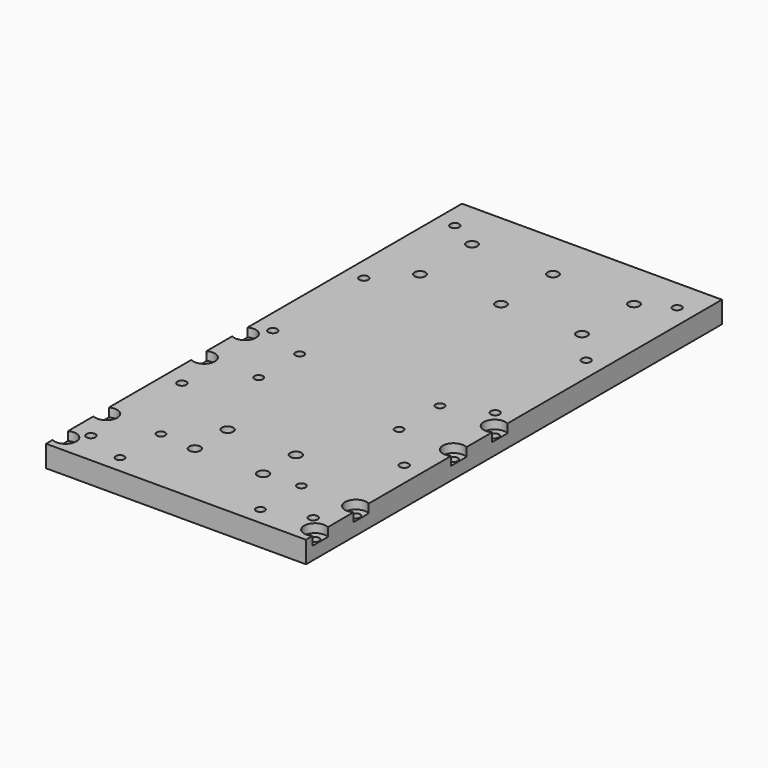
from build123d import *

# Parameters (mm, degrees)
F0_W     = 152.4
F0_H     = 12.7
F1_DEPTH = 304.8
F2_R     = 2.5
F2_R_2   = 3.302
F2_R_3   = 3.175
F2_R_4   = 2.6162
F3_DEPTH = 12.701
F4_R     = 6.35
F5_DEPTH = 5.08


with BuildPart() as f1:
    # F0 (on Front) → F1 (new body)
    with BuildSketch(Plane.XZ):
        Rectangle(F0_W, F0_H)
    extrude(amount=F1_DEPTH)

    # F2 (on face) → F3 (cut, through all)
    with BuildSketch(Plane.XY.offset(6.35)):
        with Locations((-73.15, -294.4)):
            Circle(F2_R)
        with Locations((-41.15, -294.4)):
            Circle(F2_R)
        with Locations((-73.15, -264.4)):
            Circle(F2_R)
        with Locations((-41.15, -264.4)):
            Circle(F2_R)
        with Locations((-73.15, -162.8)):
            Circle(F2_R)
        with Locations((-73.15, -192.8)):
            Circle(F2_R)
        with Locations((-41.15, -192.8)):
            Circle(F2_R)
        with Locations((-41.15, -162.8)):
            Circle(F2_R)
        with Locations((41.15, -162.8)):
            Circle(F2_R)
        with Locations((41.15, -192.8)):
            Circle(F2_R)
        with Locations((73.15, -162.8)):
            Circle(F2_R)
        with Locations((73.15, -192.8)):
            Circle(F2_R)
        with Locations((41.15, -264.4)):
            Circle(F2_R)
        with Locations((73.15, -264.4)):
            Circle(F2_R)
        with Locations((41.15, -294.4)):
            Circle(F2_R)
        with Locations((73.15, -294.4)):
            Circle(F2_R)
        with Locations((-20.0025, -266.0015)):
            Circle(F2_R_2)
        with Locations((-20.0025, -241.9985)):
            Circle(F2_R_2)
        with Locations((20.0025, -241.9985)):
            Circle(F2_R_2)
        with Locations((20.0025, -266.0015)):
            Circle(F2_R_2)
        with Locations((47.5, -28.575)):
            Circle(F2_R_3)
        with Locations((0, -28.575)):
            Circle(F2_R_3)
        with Locations((-47.5, -28.575)):
            Circle(F2_R_3)
        with Locations((-47.5, -66.675)):
            Circle(F2_R_3)
        with Locations((0, -66.675)):
            Circle(F2_R_3)
        with Locations((47.5, -66.675)):
            Circle(F2_R_3)
        with Locations((65.151, -19.05)):
            Circle(F2_R_4)
        with Locations((65.151, -85.725)):
            Circle(F2_R_4)
        with Locations((65.151, -152.4)):
            Circle(F2_R_4)
        with Locations((65.151, -219.075)):
            Circle(F2_R_4)
        with Locations((65.151, -285.75)):
            Circle(F2_R_4)
        with Locations((-65.151, -19.05)):
            Circle(F2_R_4)
        with Locations((-65.151, -85.725)):
            Circle(F2_R_4)
        with Locations((-65.151, -152.4)):
            Circle(F2_R_4)
        with Locations((-65.151, -219.075)):
            Circle(F2_R_4)
        with Locations((-65.151, -285.75)):
            Circle(F2_R_4)
    extrude(amount=-F3_DEPTH, mode=Mode.SUBTRACT)

    # F4 (on face) → F5 (cut)
    with BuildSketch(Plane.XY.offset(6.35)):
        with Locations((-73.15, -294.4)):
            Circle(F4_R)
        with Locations((-73.15, -264.4)):
            Circle(F4_R)
        with Locations((-73.15, -192.8)):
            Circle(F4_R)
        with Locations((-73.15, -162.8)):
            Circle(F4_R)
        with Locations((73.15, -162.8)):
            Circle(F4_R)
        with Locations((73.15, -192.8)):
            Circle(F4_R)
        with Locations((73.15, -264.4)):
            Circle(F4_R)
        with Locations((73.15, -294.4)):
            Circle(F4_R)
    extrude(amount=-F5_DEPTH, mode=Mode.SUBTRACT)


solid = f1.part
